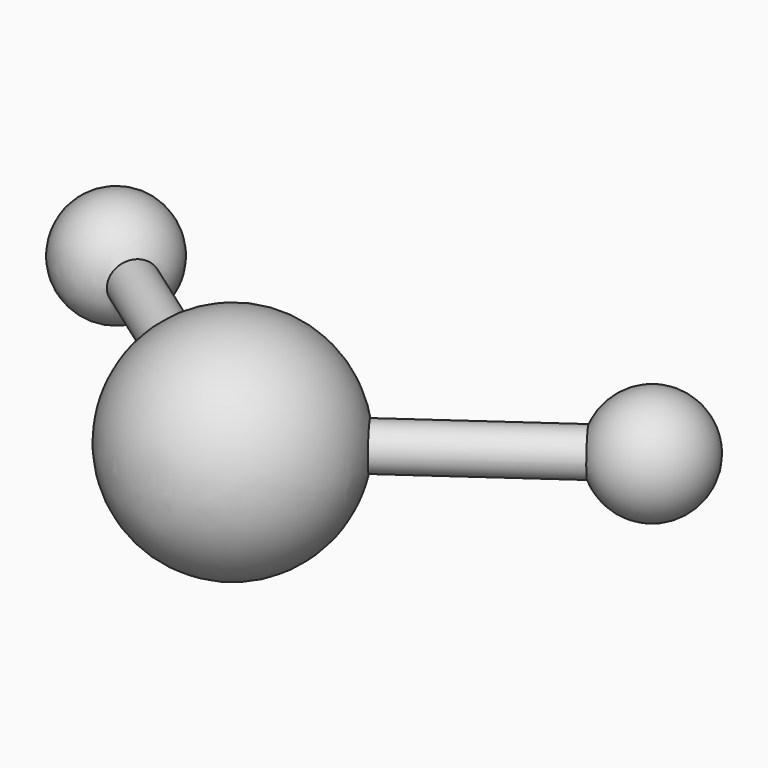
from build123d import *

# Parameters (mm, degrees)
F6_COUNT  = 2
F6_ANGLE  = 109.5
F8_R      = 1.27
F9_DEPTH  = 19.03992
F10_COUNT = 2
F10_ANGLE = 109.5


with BuildPart() as f2:
    # F1 (on Top) → F2 (revolve)
    with BuildSketch(Plane.XY):
        with BuildLine():
            Line((6.35, 0), (-6.35, 0))
            ThreePointArc((-6.35, 0), (0, -6.35), (6.35, 0))
        make_face()
    revolve(axis=Axis((0, 0, 0), (1, 0, 0)))



with BuildPart() as f4:
    # F3 (on Top) → F4 (revolve)
    with BuildSketch(Plane.XY):
        with BuildLine():
            Line((-12.3820216258, 10.9946158702), (-18.7320216258, 10.9946158702))
            ThreePointArc((-18.7320216258, 10.9946158702), (-15.5570216258, 7.8196158702), (-12.3820216258, 10.9946158702))
        make_face()
    revolve(axis=Axis((-15.5570216258, 10.9946158702, 0), (1, 0, 0)))


with BuildPart() as f6_1:
    # F6: instance of F4
    add(f4.part.rotate(Axis((0, 0, 9.7665896936), (0, 0, -1)), 1 * F6_ANGLE / (F6_COUNT - 1)))


with BuildPart() as f2_1:
    add(f2.part)

    add(f6_1.part)  # F9 merges F6_1
    # F8 (on line) → F9 (join)
    with BuildSketch(Plane(origin=(0, 0, 0), x_dir=(-0.57714519, 0.8166415552, 0), z_dir=(0.8166415552, 0.57714519, 0))):
        Circle(F8_R)
    extrude(amount=F9_DEPTH)



with BuildPart() as f2_2:
    add(f2_1.part)

    add(f4.part)  # F10 merges F4
    # F10: F2 ×2 about axis
    f10_axis = Axis((0, 0, 9.7665896936), (0, 0, 1))
    for i in range(1, F10_COUNT):
        add(f2_1.part.rotate(f10_axis, i * F10_ANGLE / (F10_COUNT - 1)))


solid = f2_2.part
